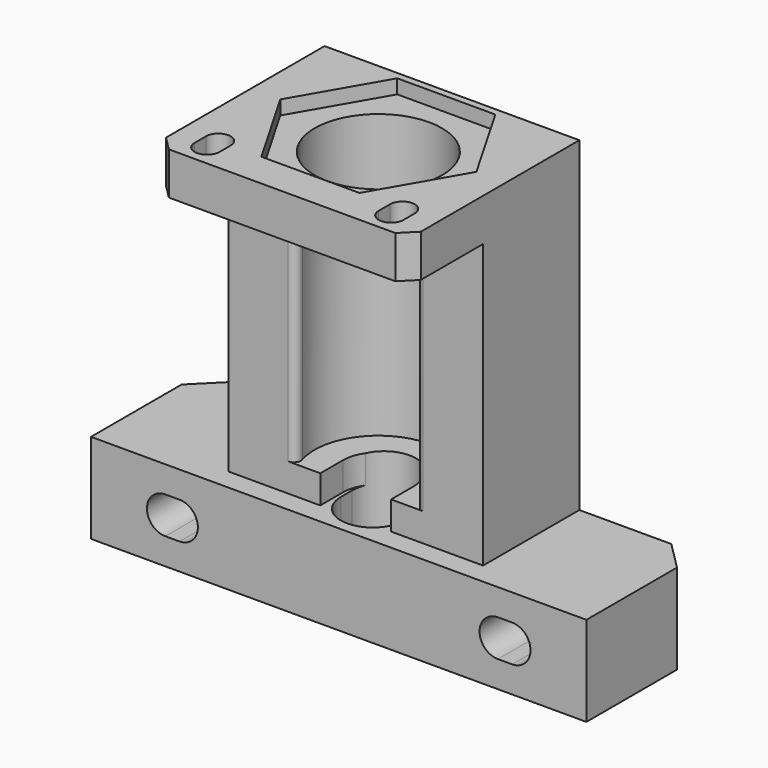
from build123d import *

# Parameters (mm, degrees)
SKETCH001_W          = 70
SKETCH001_H          = 20
PAD_DEPTH            = 12.7
SKETCH012_W          = 36
SKETCH012_H          = 17
PAD001_DEPTH         = 40
POCKET_DEPTH         = 40
POCKET001_DEPTH      = 22.994766
SKETCH007_W          = 36
SKETCH007_H          = 30
PAD002_DEPTH         = 6
POCKET002_DEPTH      = 2
POCKET003_DEPTH      = 22
POCKET003_DEPTH_BACK = -100
SKETCH013_R          = 9
POCKET004_DEPTH      = 40
FILLET_R             = 1
CHAMFER_SIZE         = 2
CHAMFER001_SIZE      = 4


with BuildPart() as part:
    # Sketch001 → Pad (new body)
    with BuildSketch(Plane.XY):
        with Locations((-8, 8)):
            Rectangle(SKETCH001_W, SKETCH001_H)
    extrude(amount=PAD_DEPTH)

    # Sketch012 (on Face6 of Pad) → Pad001 (join)
    with BuildSketch(Plane.XY.offset(12.7)):
        with Locations((-8, 9.5)):
            Rectangle(SKETCH012_W, SKETCH012_H)
    extrude(amount=PAD001_DEPTH)

    # Sketch005 → Pocket (cut)
    with BuildSketch(Plane.XY.offset(52.7)):
        with BuildLine():
            ThreePointArc((-3, 5), (-8, 10), (-13, 5))
            Line((-13, -7.39), (-13, 5))
            Line((-3, -7.39), (-13, -7.39))
            Line((-3, 5), (-3, -7.39))
        make_face()
    extrude(amount=-POCKET_DEPTH, mode=Mode.SUBTRACT)

    # Sketch010 → Pocket001 (cut, through all)
    with BuildSketch(Plane(origin=(0, 20.993766, 0), x_dir=(-1, 0, 0), z_dir=(0, 1, 0))):
        with BuildLine():
            ThreePointArc((-16.5, 8.95), (-19.1, 6.35), (-16.5, 3.75))
            Line((-16.5, 3.75), (-14.5, 3.75))
            ThreePointArc((-14.5, 3.75), (-11.9, 6.35), (-14.5, 8.95))
            Line((-16.5, 8.95), (-14.5, 8.95))
        make_face()
        with BuildLine():
            ThreePointArc((30.5, 8.95), (27.9, 6.35), (30.5, 3.75))
            Line((30.5, 3.75), (32.5, 3.75))
            ThreePointArc((32.5, 3.75), (35.1, 6.35), (32.5, 8.95))
            Line((30.5, 8.95), (32.5, 8.95))
        make_face()
    extrude(amount=-POCKET001_DEPTH, mode=Mode.SUBTRACT)

    # Sketch007 → Pad002 (join)
    with BuildSketch(Plane.XY.offset(52.7)):
        with Locations((-8, 3)):
            Rectangle(SKETCH007_W, SKETCH007_H)
        with BuildLine():
            ThreePointArc((-19.25, -7), (-21, -5.25), (-22.75, -7))
            Line((-22.75, -7), (-22.75, -9))
            ThreePointArc((-22.75, -9), (-21, -10.75), (-19.25, -9))
            Line((-19.25, -7), (-19.25, -9))
        make_face(mode=Mode.SUBTRACT)
        with BuildLine():
            ThreePointArc((6.75, -7), (5, -5.25), (3.25, -7))
            Line((3.25, -7), (3.25, -9))
            ThreePointArc((3.25, -9), (5, -10.75), (6.75, -9))
            Line((6.75, -7), (6.75, -9))
        make_face(mode=Mode.SUBTRACT)
    extrude(amount=PAD002_DEPTH)

    # Sketch008 → Pocket002 (cut)
    with BuildSketch(Plane.XY.offset(56.7)):
        Polygon((5.856406, 5), (-1.071797, 17), (-14.928203, 17), (-21.856406, 5), (-14.928203, -7), (-1.071797, -7), align=None)
    extrude(amount=POCKET002_DEPTH, mode=Mode.SUBTRACT)

    # Sketch006 → Pocket003 (cut, two sides)
    with BuildSketch(Plane.XY.offset(12.7)) as pocket003_sk:
        with BuildLine():
            ThreePointArc((-3.5, 6), (-8, 10.5), (-12.5, 6))
            Line((-12.5, 6), (-12.5, 4))
            ThreePointArc((-12.5, 4), (-8, -0.5), (-3.5, 4))
            Line((-3.5, 6), (-3.5, 4))
        make_face()
    extrude(amount=-POCKET003_DEPTH, mode=Mode.SUBTRACT)
    extrude(pocket003_sk.sketch, amount=-POCKET003_DEPTH_BACK, mode=Mode.SUBTRACT)

    # Sketch013 (on Face29 of Pocket003) → Pocket004 (cut)
    with BuildSketch(Plane.XY.offset(56.7)):
        with Locations((-8, 5)):
            Circle(SKETCH013_R)
    extrude(amount=-POCKET004_DEPTH, mode=Mode.SUBTRACT)

    # Fillet
    fillet_edges = [part.edges().sort_by_distance(p)[0] for p in [
        (0.062258, 1, 34.7),
        (-16.062258, 1, 34.7),
    ]]
    fillet(fillet_edges, radius=FILLET_R)

    # Chamfer
    chamfer_edges = [part.edges().sort_by_distance(p)[0] for p in [
        (10, -12, 55.7),
        (-26, -12, 55.7),
    ]]
    chamfer(chamfer_edges, length=CHAMFER_SIZE)

    # Chamfer001
    chamfer001_edges = [part.edges().sort_by_distance(p)[0] for p in [
        (-43, 18, 6.35),
        (27, 18, 6.35),
    ]]
    chamfer(chamfer001_edges, length=CHAMFER001_SIZE)


solid = part.part
